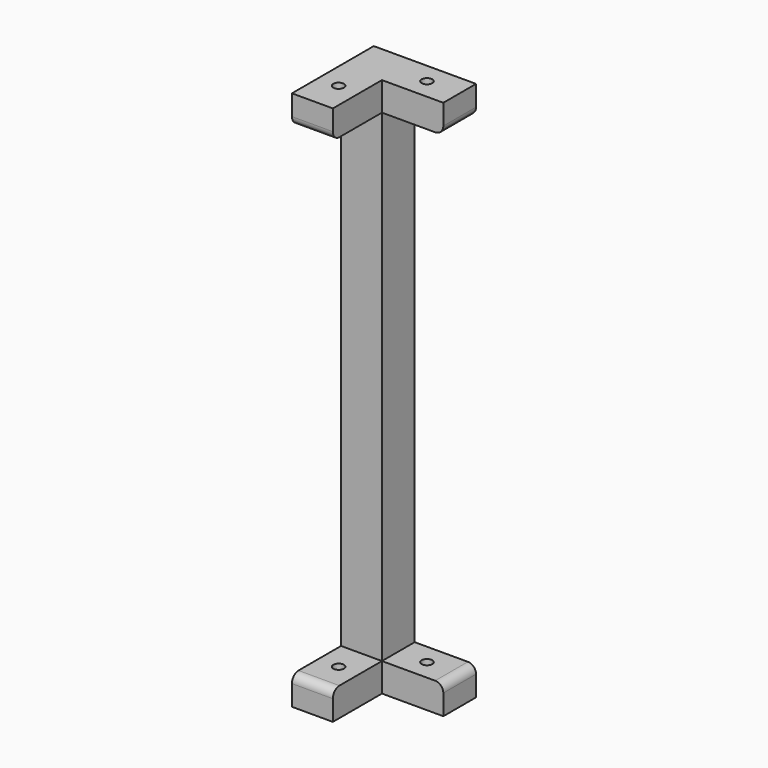
from build123d import *

# Parameters (mm, degrees)
CYLINDER025_R          = 1.3
CYLINDER025_DEPTH      = 146
CYLINDER026_R          = 1.3
CYLINDER026_DEPTH      = 146
BOX092_W               = 10
BOX092_H               = 10
BOX092_DEPTH           = 132
BOX096_W               = 15
BOX096_H               = 10
BOX096_DEPTH           = 7
BOX095_W               = 10
BOX095_H               = 15
BOX095_DEPTH           = 7
BOX094_W               = 10
BOX094_H               = 15
BOX094_DEPTH           = 7
BOX093_W               = 15
BOX093_H               = 10
BOX093_DEPTH           = 7
FILLET006_R            = 2
CUT039_PLACEMENT_ANGLE = 90


with BuildPart() as cilindro025:
    # Cylinder025 → Cylinder025 (new body)
    with BuildSketch(Plane(origin=(5, 17, 8), x_dir=(1, 0, 0), z_dir=(0, 0, 1))):
        Circle(CYLINDER025_R)
    extrude(amount=CYLINDER025_DEPTH)


with BuildPart() as cilindro026:
    # Cylinder026 → Cylinder026 (new body)
    with BuildSketch(Plane(origin=(17, 5, 8), x_dir=(1, 0, 0), z_dir=(0, 0, 1))):
        Circle(CYLINDER026_R)
    extrude(amount=CYLINDER026_DEPTH)


with BuildPart() as cubo055:
    # Box092 → Box092 (new body)
    with BuildSketch(Plane.XY.offset(15)):
        with Locations((5, 5)):
            Rectangle(BOX092_W, BOX092_H)
    extrude(amount=BOX092_DEPTH)


with BuildPart() as cubo059:
    # Box096 → Box096 (new body)
    with BuildSketch(Plane(origin=(10, 0, 140), x_dir=(1, 0, 0), z_dir=(0, 0, 1))):
        with Locations((7.5, 5)):
            Rectangle(BOX096_W, BOX096_H)
    extrude(amount=BOX096_DEPTH)


with BuildPart() as cubo058:
    # Box095 → Box095 (new body)
    with BuildSketch(Plane(origin=(0, 10, 15), x_dir=(1, 0, 0), z_dir=(0, 0, 1))):
        with Locations((5, 7.5)):
            Rectangle(BOX095_W, BOX095_H)
    extrude(amount=BOX095_DEPTH)


with BuildPart() as cubo057:
    # Box094 → Box094 (new body)
    with BuildSketch(Plane(origin=(0, 10, 140), x_dir=(1, 0, 0), z_dir=(0, 0, 1))):
        with Locations((5, 7.5)):
            Rectangle(BOX094_W, BOX094_H)
    extrude(amount=BOX094_DEPTH)


with BuildPart() as obj1:
    # Box093 → Box093 (new body)
    with BuildSketch(Plane(origin=(10, 0, 15), x_dir=(1, 0, 0), z_dir=(0, 0, 1))):
        with Locations((7.5, 5)):
            Rectangle(BOX093_W, BOX093_H)
    extrude(amount=BOX093_DEPTH)

    # Fusion014: union Cubo055, Cubo059, Cubo058, Cubo057
    add(cubo055.part)
    add(cubo059.part)
    add(cubo058.part)
    add(cubo057.part)

    # Fillet006
    fillet006_edges = [obj1.edges().sort_by_distance(p)[0] for p in [
        (25, 5, 22),
        (25, 5, 140),
        (5, 25, 22),
        (5, 25, 140),
    ]]
    fillet(fillet006_edges, radius=FILLET006_R)

    # Cut040: cut Cilindro026
    add(cilindro026.part, mode=Mode.SUBTRACT)

    # Cut039: cut Cilindro025
    add(cilindro025.part, mode=Mode.SUBTRACT)


with BuildPart() as obj1_1:
    # Cut039 placement: moved
    add(obj1.part.moved(Location((0, 230, 0))).rotate(Axis((0, 230, 0), (0, 0, -1)), CUT039_PLACEMENT_ANGLE))


solid = obj1_1.part
